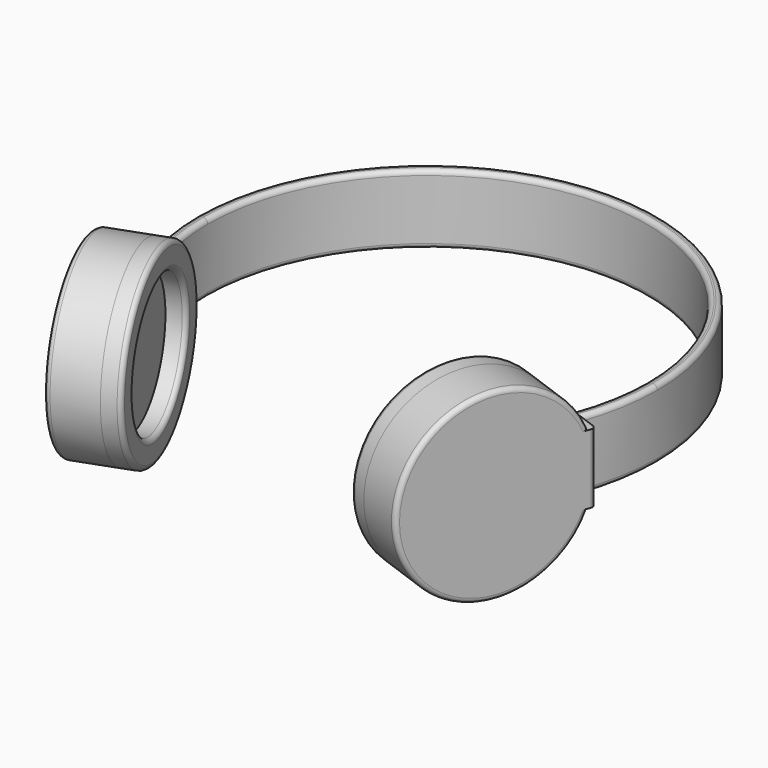
from build123d import *

# Parameters (mm, degrees)
F1_DEPTH = 9.525
F4_DEPTH = 6.35
F5_R     = 18.4084755522
F6_DEPTH = 5.08
F7_R     = 1.27


with BuildPart() as f1:
    # F0 (on Top) → F1 (new body, symmetric)
    with BuildSketch(Plane.XY):
        with BuildLine():
            ThreePointArc((59.6704814199, -21.7182791012), (62.5352923163, -11.0266592819), (63.5, 0))
            ThreePointArc((63.5, 0), (-11.0266592819, 62.5352923163), (-59.6704814199, -21.7182791012))
            Line((-59.6704814199, -21.7182791012), (-56.8830861183, -20.7037501802))
            ThreePointArc((-56.8830861183, -20.7037501802), (-10.5115694494, 59.6140727142), (60.5337158769, 0))
            ThreePointArc((60.5337158769, 0), (59.6140727142, -10.5115694494), (56.8830861183, -20.7037501802))
            Line((56.8830861183, -20.7037501802), (59.6704814199, -21.7182791012))
        make_face()
    extrude(amount=F1_DEPTH, both=True)

    # F3 (on face) → F4 (join, symmetric)
    with BuildSketch(Plane(origin=(-59.6704814199, -21.7182791012, 0), x_dir=(0.3420201433, -0.9396926208, 0), z_dir=(-0.9396926208, -0.3420201433, 0))):
        with BuildLine():
            Line((1.8535698035, 9.525), (0, 9.525))
            Line((0, 9.525), (0, -9.525))
            Line((0, -9.525), (1.8535698035, -9.525))
            ThreePointArc((1.8535698035, -9.525), (50.8, 0), (1.8535698035, 9.525))
        make_face()
    extrude(amount=F4_DEPTH, both=True)

    # F5 (on face) → F6 (join)
    with BuildSketch(Plane(origin=(-53.7034332779, -19.5464511911, 0), x_dir=(-0.3420201433, 0.9396926208, 0), z_dir=(0.9396926208, 0.3420201433, 0))):
        with BuildLine():
            ThreePointArc((-1.8535698035, 9.525), (-50.8, 0), (-1.8535698035, -9.525))
            ThreePointArc((-1.8535698035, -9.525), (-0.4676983915, -4.8518384664), (0, 0))
            ThreePointArc((0, 0), (-0.4676983915, 4.8518384664), (-1.8535698035, 9.525))
        make_face()
        with Locations((-25.4, 0)):
            Circle(F5_R, mode=Mode.SUBTRACT)
    extrude(amount=F6_DEPTH)

    # F7
    f7_edges = [f1.edges().sort_by_distance(p)[0] for p in [
        (-33.946414, -58.97549, 0),
        (-32.18913, -63.803588, 9.525),
        (-48.262906, -71.626492, 0),
        (-65.63753, -23.890107, 0),
        (0, 63.5, -9.525),
        (0, 60.533716, -9.525),
        (0, 63.5, 9.525),
        (0, 60.533716, 9.525),
    ]]
    fillet(f7_edges, radius=F7_R)

    # F8: F1 across plane


with BuildPart() as f1_1:
    add(f1.part)
    add(f1.part.mirror(Plane.YZ))


solid = f1_1.part
